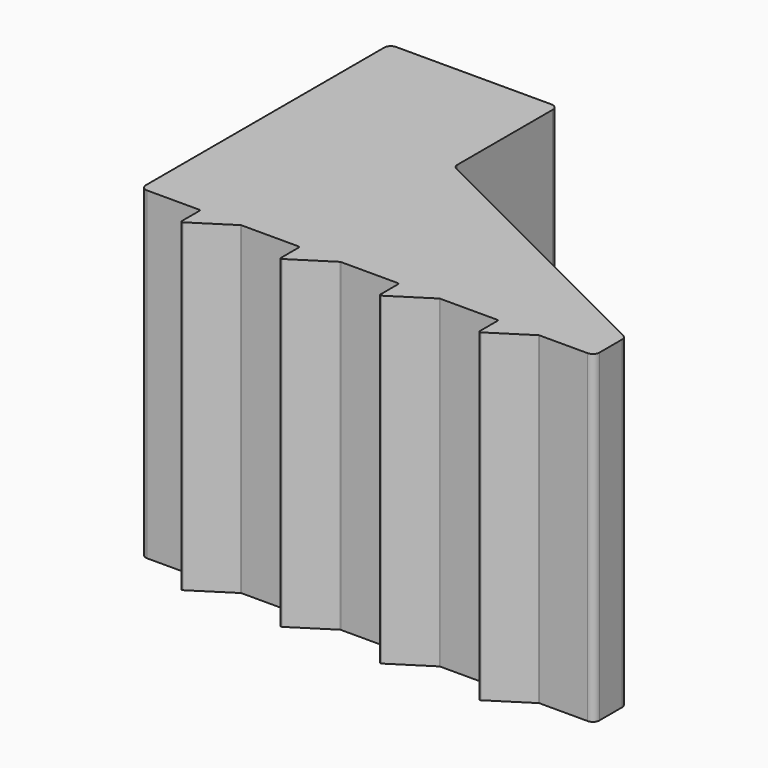
from build123d import *

# Parameters (mm, degrees)
F1_DEPTH = 25


with BuildPart() as f1:
    # F0 (on Top) → F1 (new body)
    with BuildSketch(Plane.XY):
        with BuildLine():
            Line((0, 23.5), (0, 0.5))
            ThreePointArc((0, 0.5), (0.146447, 0.146447), (0.5, 0))
            Line((0.5, 0), (4.517433, 0))
            ThreePointArc((4.517433, 0), (4.588144, -0.029289), (4.617433, -0.1))
            Line((4.617433, -0.1), (4.617433, -1.817398))
            ThreePointArc((4.617433, -1.817398), (4.669401, -1.905107), (4.77129, -1.901656))
            Line((4.77129, -1.901656), (7.721763, -0.015742))
            ThreePointArc((7.721763, -0.015742), (7.747565, -0.004016), (7.77562, 0))
            Line((7.77562, 0), (12.1841, 0))
            ThreePointArc((12.1841, 0), (12.254811, -0.029289), (12.2841, -0.1))
            Line((12.2841, -0.1), (12.2841, -1.817398))
            ThreePointArc((12.2841, -1.817398), (12.336067, -1.905107), (12.437957, -1.901656))
            Line((12.437957, -1.901656), (15.388429, -0.015742))
            ThreePointArc((15.388429, -0.015742), (15.414231, -0.004016), (15.442286, 0))
            Line((15.442286, 0), (19.850767, 0))
            ThreePointArc((19.850767, 0), (19.921477, -0.029289), (19.950767, -0.1))
            Line((19.950767, -0.1), (19.950767, -1.817398))
            ThreePointArc((19.950767, -1.817398), (20.002734, -1.905107), (20.104624, -1.901656))
            Line((20.104624, -1.901656), (23.055096, -0.015742))
            ThreePointArc((23.055096, -0.015742), (23.080898, -0.004016), (23.108953, 0))
            Line((23.108953, 0), (27.517433, 0))
            ThreePointArc((27.517433, 0), (27.588144, -0.029289), (27.617433, -0.1))
            Line((27.617433, -0.1), (27.617433, -1.817398))
            ThreePointArc((27.617433, -1.817398), (27.669401, -1.905107), (27.77129, -1.901656))
            Line((27.77129, -1.901656), (30.721763, -0.015742))
            ThreePointArc((30.721763, -0.015742), (30.747565, -0.004016), (30.77562, 0))
            Line((30.77562, 0), (34.5, 0))
            ThreePointArc((34.5, 0), (34.853553, 0.146447), (35, 0.5))
            Line((35, 0.5), (35, 2.690983))
            ThreePointArc((35, 2.690983), (34.925325, 2.953849), (34.723607, 3.138197))
            Line((34.723607, 3.138197), (13.276393, 13.861803))
            ThreePointArc((13.276393, 13.861803), (13.074675, 14.046151), (13, 14.309017))
            Line((13, 14.309017), (13, 23.5))
            ThreePointArc((13, 23.5), (12.853553, 23.853553), (12.5, 24))
            Line((12.5, 24), (0.5, 24))
            ThreePointArc((0.5, 24), (0.146447, 23.853553), (0, 23.5))
        make_face()
    extrude(amount=F1_DEPTH)


solid = f1.part
